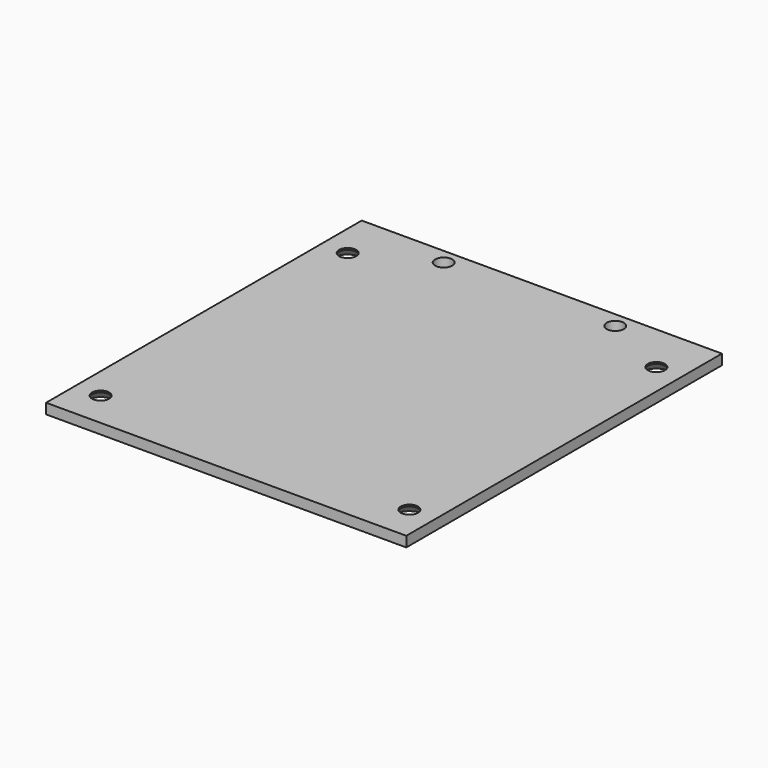
from build123d import *

# Parameters (mm, degrees)
F0_W     = 105
F0_H     = 115
F0_R     = 2.5
F1_DEPTH = 3
F2_SIZE2 = 2.5
F2_SIZE  = 2.5


with BuildPart() as f1:
    # F0 (on Top) → F1 (new body)
    with BuildSketch(Plane.XY):
        with Locations((0, 2)):
            Rectangle(F0_W, F0_H)
        with Locations((-45, -45)):
            Circle(F0_R, mode=Mode.SUBTRACT)
        with Locations((45, -45)):
            Circle(F0_R, mode=Mode.SUBTRACT)
        with Locations((-45, 45)):
            Circle(F0_R, mode=Mode.SUBTRACT)
        with Locations((-25, 55)):
            Circle(F0_R, mode=Mode.SUBTRACT)
        with Locations((25, 55)):
            Circle(F0_R, mode=Mode.SUBTRACT)
        with Locations((45, 45)):
            Circle(F0_R, mode=Mode.SUBTRACT)
    extrude(amount=F1_DEPTH)

    # F2
    f2_edges = [f1.edges().sort_by_distance(p)[0] for p in [
        (-47.5, -45, 0),
        (42.5, -45, 0),
        (42.5, 45, 0),
        (-47.5, 45, 0),
    ]]
    chamfer(f2_edges, length=F2_SIZE, length2=F2_SIZE2)


solid = f1.part
